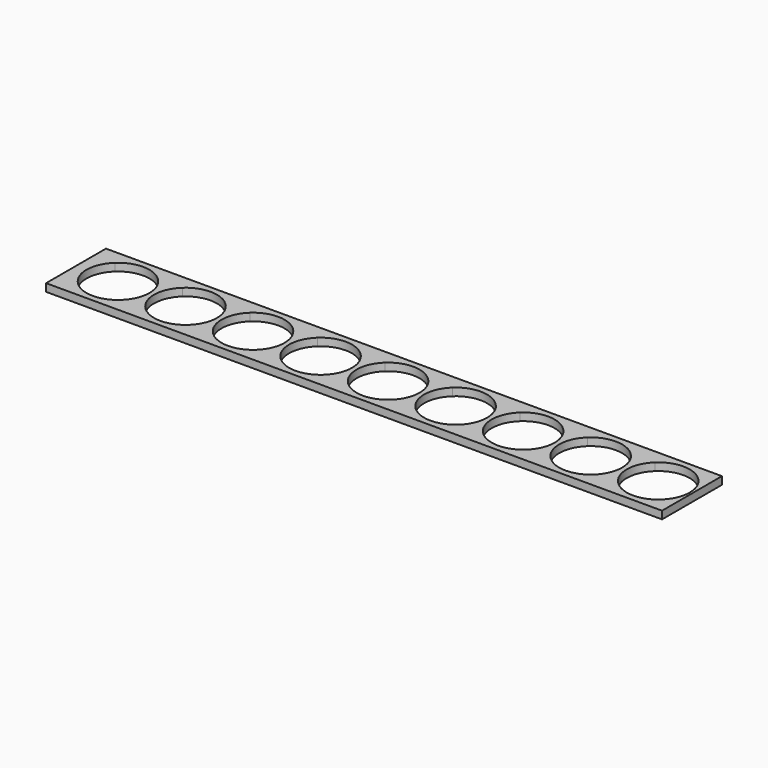
from build123d import *

# Parameters (mm, degrees)
F0_W     = 200.665613
F0_H     = 24.384
F1_DEPTH = 2.5


with BuildPart() as f1:
    # F0 (on Top) → F1 (new body)
    with BuildSketch(Plane.XY):
        with Locations((86.667197, 0)):
            Rectangle(F0_W, F0_H)
        with BuildLine():
            ThreePointArc((-6.986594, -7.5), (-10.25, 0), (-6.986594, 7.5))
            ThreePointArc((-6.986594, 7.5), (0, 10.25), (6.986594, 7.5))
            ThreePointArc((6.986594, 7.5), (10.25, 0), (6.986594, -7.5))
            ThreePointArc((6.986594, -7.5), (0, -10.25), (-6.986594, -7.5))
        make_face(mode=Mode.SUBTRACT)
        with BuildLine():
            ThreePointArc((15.013406, -7.5), (11.75, 0), (15.013406, 7.5))
            ThreePointArc((15.013406, 7.5), (22, 10.25), (28.986594, 7.5))
            ThreePointArc((28.986594, 7.5), (32.25, 0), (28.986594, -7.5))
            ThreePointArc((28.986594, -7.5), (22, -10.25), (15.013406, -7.5))
        make_face(mode=Mode.SUBTRACT)
        with BuildLine():
            ThreePointArc((37.013406, -7.5), (33.75, 0), (37.013406, 7.5))
            ThreePointArc((37.013406, 7.5), (44, 10.25), (50.986594, 7.5))
            ThreePointArc((50.986594, 7.5), (54.25, 0), (50.986594, -7.5))
            ThreePointArc((50.986594, -7.5), (44, -10.25), (37.013406, -7.5))
        make_face(mode=Mode.SUBTRACT)
        with BuildLine():
            ThreePointArc((59.013406, -7.5), (55.75, 0), (59.013406, 7.5))
            ThreePointArc((59.013406, 7.5), (66, 10.25), (72.986594, 7.5))
            ThreePointArc((72.986594, 7.5), (76.25, 0), (72.986594, -7.5))
            ThreePointArc((72.986594, -7.5), (66, -10.25), (59.013406, -7.5))
        make_face(mode=Mode.SUBTRACT)
        with BuildLine():
            ThreePointArc((81.013406, -7.5), (77.75, 0), (81.013406, 7.5))
            ThreePointArc((81.013406, 7.5), (88, 10.25), (94.986594, 7.5))
            ThreePointArc((94.986594, 7.5), (98.25, 0), (94.986594, -7.5))
            ThreePointArc((94.986594, -7.5), (88, -10.25), (81.013406, -7.5))
        make_face(mode=Mode.SUBTRACT)
        with BuildLine():
            ThreePointArc((103.013406, -7.5), (99.75, 0), (103.013406, 7.5))
            ThreePointArc((103.013406, 7.5), (110, 10.25), (116.986594, 7.5))
            ThreePointArc((116.986594, 7.5), (120.25, 0), (116.986594, -7.5))
            ThreePointArc((116.986594, -7.5), (110, -10.25), (103.013406, -7.5))
        make_face(mode=Mode.SUBTRACT)
        with BuildLine():
            ThreePointArc((125.013406, -7.5), (121.75, 0), (125.013406, 7.5))
            ThreePointArc((125.013406, 7.5), (132, 10.25), (138.986594, 7.5))
            ThreePointArc((138.986594, 7.5), (142.25, 0), (138.986594, -7.5))
            ThreePointArc((138.986594, -7.5), (132, -10.25), (125.013406, -7.5))
        make_face(mode=Mode.SUBTRACT)
        with BuildLine():
            ThreePointArc((147.013406, -7.5), (143.75, 0), (147.013406, 7.5))
            ThreePointArc((147.013406, 7.5), (154, 10.25), (160.986594, 7.5))
            ThreePointArc((160.986594, 7.5), (164.25, 0), (160.986594, -7.5))
            ThreePointArc((160.986594, -7.5), (154, -10.25), (147.013406, -7.5))
        make_face(mode=Mode.SUBTRACT)
        with BuildLine():
            ThreePointArc((169.013406, -7.5), (165.75, 0), (169.013406, 7.5))
            ThreePointArc((169.013406, 7.5), (176, 10.25), (182.986594, 7.5))
            ThreePointArc((182.986594, 7.5), (186.25, 0), (182.986594, -7.5))
            ThreePointArc((182.986594, -7.5), (176, -10.25), (169.013406, -7.5))
        make_face(mode=Mode.SUBTRACT)
    extrude(amount=F1_DEPTH)


solid = f1.part
